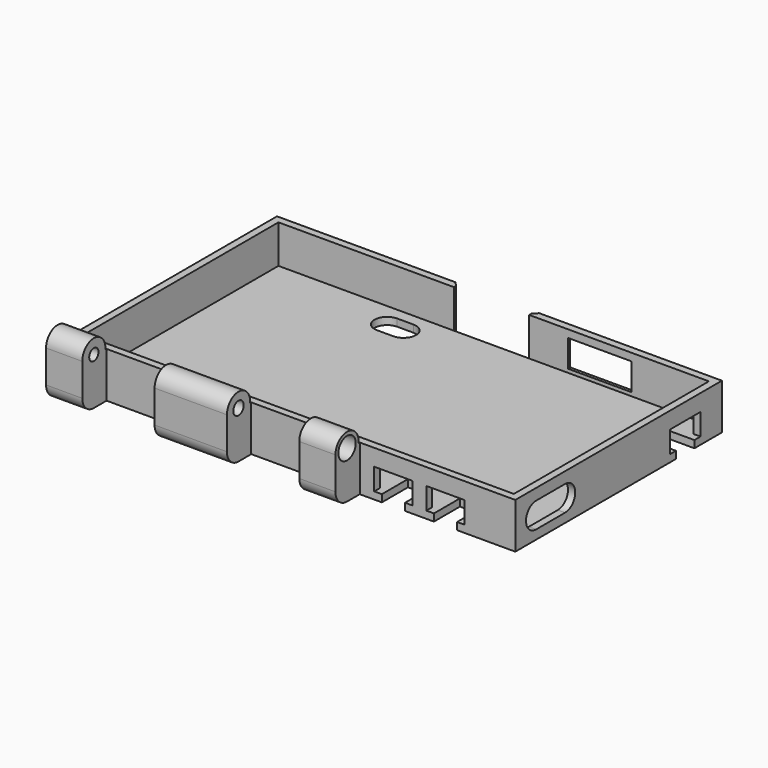
from build123d import *

# Parameters (mm, degrees)
SKETCH035_R     = 1.6
PAD_DEPTH       = 61.5
PAD_DEPTH_BACK  = 61.5
SKETCH037_W     = 8.4
SKETCH037_H     = 43
SKETCH037_H_2   = 20
POCKET007_DEPTH = 17.001
SKETCH038_R     = 3
POCKET008_DEPTH = 4
SKETCH039_R     = 3
POCKET009_DEPTH = 4
SKETCH041_W     = 67.4
SKETCH041_H     = 119
POCKET011_DEPTH = 11
POCKET012_DEPTH = 2
SKETCH043_W     = 7.5
SKETCH043_H     = 17.6
SKETCH043_W_2   = 15
SKETCH043_H_2   = 20.8
POCKET013_DEPTH = 2
POCKET014_DEPTH = 9
POCKET015_DEPTH = 9
CHAMFER_SIZE    = 1.2
SKETCH062_R     = 1.8
POCKET020_DEPTH = 20
SKETCH071_W     = 71.8
SKETCH071_H     = 123
POCKET026_DEPTH = 0.4


with BuildPart() as part:
    # Sketch035 → Pad (new body, two sides)
    with BuildSketch(Plane.YZ) as pad_sk:
        with BuildLine():
            Line((75.8, 0), (75.8, -13))
            Line((75.8, -13), (0, -13))
            ThreePointArc((-4, -9), (-2.828427, -11.828427), (0, -13))
            Line((-4, 0), (-4, -9))
            ThreePointArc((4, 0), (0, 4), (-4, 0))
            Line((4, 0), (4.4, 0))
            Line((4.4, 0), (75.8, 0))
        make_face()
        Circle(SKETCH035_R, mode=Mode.SUBTRACT)
    extrude(amount=PAD_DEPTH)
    extrude(pad_sk.sketch, amount=-PAD_DEPTH_BACK)

    # Sketch037 (on Face4 of Pad) → Pocket007 (cut, through all)
    with BuildSketch(Plane.YX.offset(13)):
        with Locations((0.2, 40)):
            Rectangle(SKETCH037_W, SKETCH037_H)
        with Locations((0.2, -1.5)):
            Rectangle(SKETCH037_W, SKETCH037_H_2)
        with Locations((0.2, -41.5)):
            Rectangle(SKETCH037_W, SKETCH037_H_2)
    extrude(amount=-POCKET007_DEPTH, mode=Mode.SUBTRACT)

    # Sketch038 (on Face22 of Pocket007) → Pocket008 (cut)
    with BuildSketch(Plane.YZ.offset(18.5)):
        Circle(SKETCH038_R)
    extrude(amount=-POCKET008_DEPTH, mode=Mode.SUBTRACT)

    # Sketch039 (on Face2 of Pocket008) → Pocket009 (cut)
    with BuildSketch(Plane(origin=(-61.5, 0, 0), x_dir=(0, 1, 0), z_dir=(-1, 0, 0))):
        Circle(SKETCH039_R)
    extrude(amount=-POCKET009_DEPTH, mode=Mode.SUBTRACT)

    # Sketch041 (on Face3 of Pocket009) → Pocket011 (cut)
    with BuildSketch(Plane(origin=(0, 0, 0), x_dir=(0, -1, 0), z_dir=(0, 0, 1))):
        with Locations((-40.1, 0)):
            Rectangle(SKETCH041_W, SKETCH041_H)
    extrude(amount=-POCKET011_DEPTH, mode=Mode.SUBTRACT)

    # Sketch042 (on Face31 of Pocket011) → Pocket012 (cut)
    with BuildSketch(Plane(origin=(0, 0, -11), x_dir=(0, -1, 0), z_dir=(0, 0, 1))):
        with BuildLine():
            ThreePointArc((-63.6, -19.6), (-67.1, -16.1), (-70.6, -19.6))
            Line((-70.6, -19.6), (-70.6, -24.1))
            ThreePointArc((-70.6, -24.1), (-67.1, -27.6), (-63.6, -24.1))
            Line((-63.6, -19.6), (-63.6, -24.1))
        make_face()
    extrude(amount=-POCKET012_DEPTH, mode=Mode.SUBTRACT)

    # Sketch043 (on Face7 of Pocket012) → Pocket013 (cut)
    with BuildSketch(Plane.ZX.offset(75.8)):
        with Locations((-6.25, 29.3)):
            Rectangle(SKETCH043_W, SKETCH043_H)
        with Locations((-5.5, -0.6)):
            Rectangle(SKETCH043_W_2, SKETCH043_H_2)
    extrude(amount=-POCKET013_DEPTH, mode=Mode.SUBTRACT)

    # Sketch044 (on Face19 of Pocket013) → Pocket014 (cut)
    with BuildSketch(Plane.YZ.offset(61.5)):
        with BuildLine():
            ThreePointArc((11.6, -3.5), (8.1, -7), (11.6, -10.5))
            Line((11.6, -10.5), (21.6, -10.5))
            ThreePointArc((21.6, -10.5), (25.1, -7), (21.6, -3.5))
            Line((11.6, -3.5), (21.6, -3.5))
        make_face()
        Polygon((57.8, -5), (68.4, -5), (68.4, -11), (66.3, -11), (66.3, -13), (59.9, -13), (59.9, -11), (57.8, -11), align=None)
    extrude(amount=-POCKET014_DEPTH, mode=Mode.SUBTRACT)

    # Sketch045 (on Face20 of Pocket014) → Pocket015 (cut)
    with BuildSketch(Plane(origin=(0, 4.4, 0), x_dir=(0, 0, -1), z_dir=(0, -1, 0))):
        Polygon((5, 33.1), (5, 22.5), (11, 22.5), (11, 24.6), (13, 24.6), (13, 31), (11, 31), (11, 33.1), align=None)
        Polygon((5, 36.9), (11, 36.9), (11, 39), (13, 39), (13, 45.4), (11, 45.4), (11, 47.5), (5, 47.5), align=None)
    extrude(amount=-POCKET015_DEPTH, mode=Mode.SUBTRACT)

    # Chamfer
    chamfer_edges = [part.edges().sort_by_distance(p)[0] for p in [
        (9.8, 75.8, -6.5),
        (-11, 75.8, -6.5),
        (38.1, 75.8, -6.25),
        (29.3, 75.8, -2.5),
        (20.5, 75.8, -6.25),
        (29.3, 75.8, -10),
    ]]
    chamfer(chamfer_edges, length=CHAMFER_SIZE)

    # Sketch062 (on Face29 of Chamfer) → Pocket020 (cut)
    with BuildSketch(Plane(origin=(-31.5, 0, 0), x_dir=(0, 1, 0), z_dir=(-1, 0, 0))):
        Circle(SKETCH062_R)
    extrude(amount=-POCKET020_DEPTH, mode=Mode.SUBTRACT)

    # Sketch071 (on Face1 of Pocket020) → Pocket026 (cut)
    with BuildSketch(Plane(origin=(0, 0, 0), x_dir=(0, -1, 0), z_dir=(0, 0, 1))):
        with Locations((-39.9, 0)):
            Rectangle(SKETCH071_W, SKETCH071_H)
    extrude(amount=-POCKET026_DEPTH, mode=Mode.SUBTRACT)


solid = part.part
